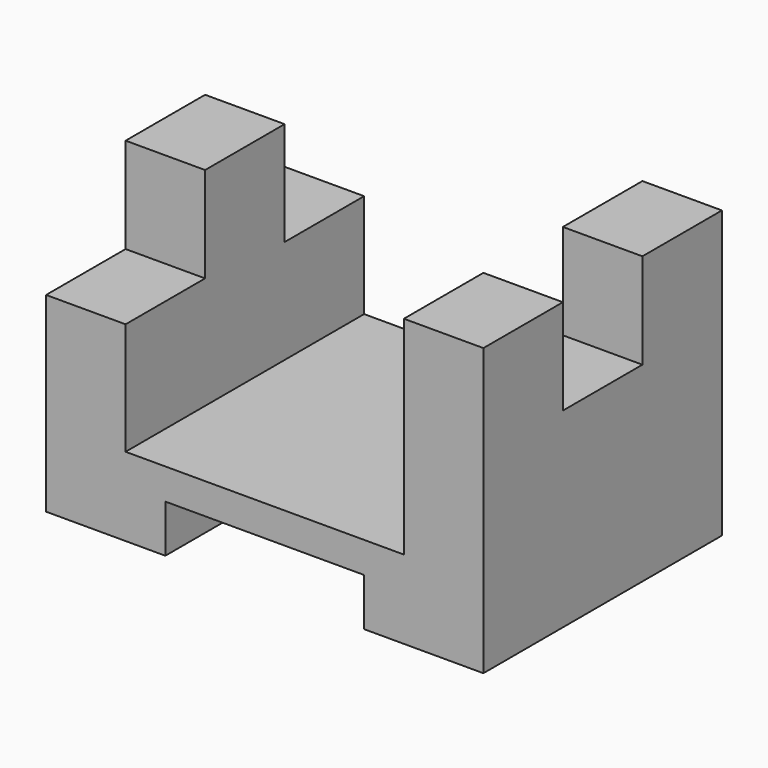
from build123d import *

# Parameters (mm, degrees)
F1_DEPTH = 75
F2_W     = 25
F2_H     = 24
F2_H_2   = 26.113208
F3_DEPTH = 20
F4_W     = 25
F4_H     = 24
F5_DEPTH = 20


with BuildPart() as f1:
    # F0 (on Front) → F1 (new body)
    with BuildSketch(Plane.XZ):
        Polygon((-30, 0), (0, 0), (0, 72), (-20, 72), (-20, 19.773584), (-90, 19.773584), (-90, 72), (-110, 72), (-110, 0), (-80, 0), (-80, 12), (-30, 12), align=None)
    extrude(amount=F1_DEPTH)

    # F2 (on face) → F3 (cut)
    with BuildSketch(Plane.YZ.offset(-90)):
        with Locations((-62.5, 60)):
            Rectangle(F2_W, F2_H)
        with Locations((-12.5, 58.943396)):
            Rectangle(F2_W, F2_H_2)
    extrude(amount=-F3_DEPTH, mode=Mode.SUBTRACT)

    # F4 (on face) → F5 (cut)
    with BuildSketch(Plane(origin=(-20, 0, 0), x_dir=(0, -1, 0), z_dir=(-1, 0, 0))):
        with Locations((37.5, 60)):
            Rectangle(F4_W, F4_H)
    extrude(amount=-F5_DEPTH, mode=Mode.SUBTRACT)


solid = f1.part
